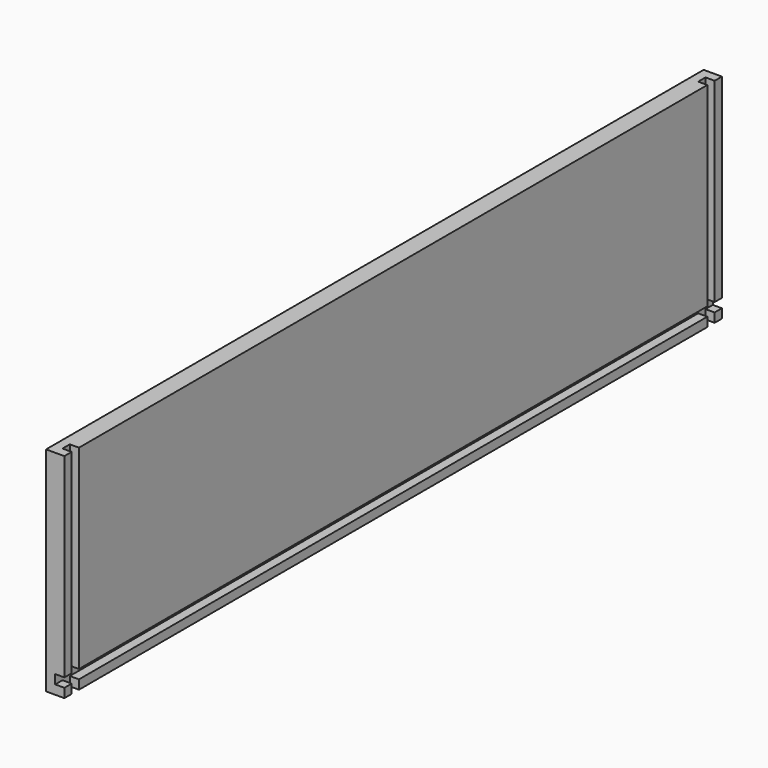
from build123d import *

# Parameters (mm, degrees)
F0_W     = 12
F0_H     = 140
F1_DEPTH = 540
F2_W     = 6
F2_H     = 6
F3_DEPTH = 140.001
F4_W     = 6
F4_H     = 6
F5_DEPTH = 540.001


with BuildPart() as f1:
    # F0 (on Front) → F1 (new body)
    with BuildSketch(Plane.XZ):
        with Locations((6, 70)):
            Rectangle(F0_W, F0_H)
    extrude(amount=F1_DEPTH)

    # F2 (on Top) → F3 (cut, through all)
    with BuildSketch(Plane.XY):
        with Locations((9, -9)):
            Rectangle(F2_W, F2_H)
        with Locations((9, -531)):
            Rectangle(F2_W, F2_H)
    extrude(amount=F3_DEPTH, mode=Mode.SUBTRACT)

    # F4 (on face) → F5 (cut, through all)
    with BuildSketch(Plane(origin=(0, 0, 0), x_dir=(-1, 0, 0), z_dir=(0, 1, 0))):
        with Locations((-9, 9)):
            Rectangle(F4_W, F4_H)
    extrude(amount=-F5_DEPTH, mode=Mode.SUBTRACT)


solid = f1.part
